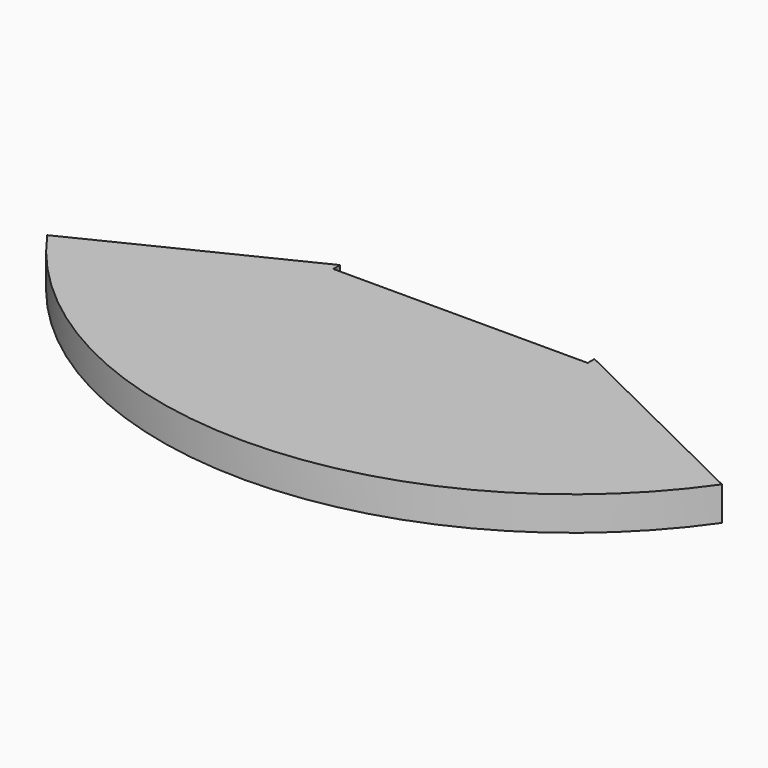
from build123d import *

# Parameters (mm, degrees)
F1_DEPTH = 4


with BuildPart() as f1:
    # F0 (on Top) → F1 (new body)
    with BuildSketch(Plane.XY):
        with BuildLine():
            Line((-15, -15.55), (-39.782689, -27.741443))
            ThreePointArc((-39.782689, -27.741443), (0, -48.5), (39.782689, -27.741443))
            Line((39.782689, -27.741443), (15, -15.55))
            Line((15, -15.55), (15, -16.55))
            Line((15, -16.55), (-15, -16.55))
            Line((-15, -16.55), (-15, -15.55))
        make_face()
    extrude(amount=F1_DEPTH)


solid = f1.part
